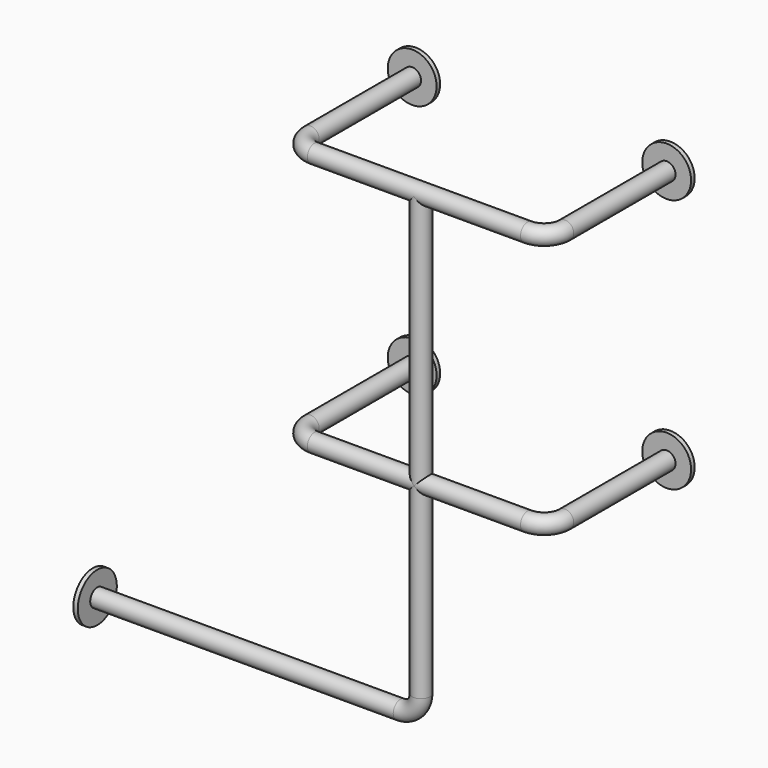
from build123d import *

# Parameters (mm, degrees)
F0_R      = 30
F10_R     = 30
F0_R_2    = 82.5
F14_DEPTH = 15
F10_R_2   = 82.5
F15_DEPTH = 15


with BuildPart() as f11:
    # F11: sweep along a path in F11_path
    with BuildLine(Plane(origin=(0, 0, 0), x_dir=(0, -1, 0), z_dir=(0, 0, -1))) as f11_path:
        Line((0, 0), (445, 0))
        ThreePointArc((445, 0), (494.4974746831, -20.5025253169), (515, -70))
        Line((515, -70), (515, -790))
        ThreePointArc((515, -790), (494.4974746831, -839.4974746831), (445, -860))
        Line((445, -860), (0, -860))
    # F0 (on Front) → F11 (sweep)
    with BuildSketch(Plane.XZ):
        Circle(F0_R)
    sweep(path=f11_path.line)


with BuildPart() as f12:
    # F12: sweep along a path in F12_path
    with BuildLine(Plane(origin=(860, 0, -860), x_dir=(0, 1, 0), z_dir=(0, 0, 1))) as f12_path:
        Line((0, 0), (-445, 0))
        ThreePointArc((-445, 0), (-494.4974746831, 20.5025253169), (-515, 70))
        Line((-515, 70), (-515, 790))
        ThreePointArc((-515, 790), (-494.4974746831, 839.4974746831), (-445, 860))
        Line((-445, 860), (0, 860))
    # F0 (on Front) → F12 (sweep)
    with BuildSketch(Plane.XZ):
        with Locations((860, -860)):
            Circle(F0_R)
    sweep(path=f12_path.line)


with BuildPart() as f13:
    # F13: sweep along a path in F8
    with BuildLine(Plane.XZ.offset(515)) as f13_path:
        Line((-679, -1560), (360, -1560))
        ThreePointArc((360, -1560), (409.4974746831, -1539.4974746831), (430, -1490))
        Line((430, -1490), (430, -860))
        Line((430, -860), (430, 0))
    # F10 (on offset) → F13 (sweep)
    with BuildSketch(Plane.YZ.offset(-679)):
        with Locations((-515, -1560)):
            Circle(F10_R)
    sweep(path=f13_path.line)

    # F10 (on offset) → F15 (join)
    with BuildSketch(Plane.YZ.offset(-679)):
        with Locations((-515, -1560)):
            Circle(F10_R_2)
        with Locations((-515, -1560)):
            Circle(F10_R, mode=Mode.SUBTRACT)
    extrude(amount=F15_DEPTH)


with BuildPart() as f14:
    # F0 (on Front) → F14 (new body)
    with BuildSketch(Plane.XZ):
        Circle(F0_R_2)
        Circle(F0_R, mode=Mode.SUBTRACT)
    extrude(amount=F14_DEPTH)


with BuildPart() as f14b:
    # F0 (on Front) → F14, piece 2 (new body)
    with BuildSketch(Plane.XZ):
        with Locations((860, 0)):
            Circle(F0_R_2)
        with Locations((860, 0)):
            Circle(F0_R, mode=Mode.SUBTRACT)
    extrude(amount=F14_DEPTH)


with BuildPart() as f14c:
    # F0 (on Front) → F14, piece 3 (new body)
    with BuildSketch(Plane.XZ):
        with Locations((0, -860)):
            Circle(F0_R_2)
        with Locations((0, -860)):
            Circle(F0_R, mode=Mode.SUBTRACT)
    extrude(amount=F14_DEPTH)


with BuildPart() as f14d:
    # F0 (on Front) → F14, piece 4 (new body)
    with BuildSketch(Plane.XZ):
        with Locations((860, -860)):
            Circle(F0_R_2)
        with Locations((860, -860)):
            Circle(F0_R, mode=Mode.SUBTRACT)
    extrude(amount=F14_DEPTH)


solid = Compound([f11.part, f12.part, f13.part, f14.part, f14b.part, f14c.part, f14d.part])
